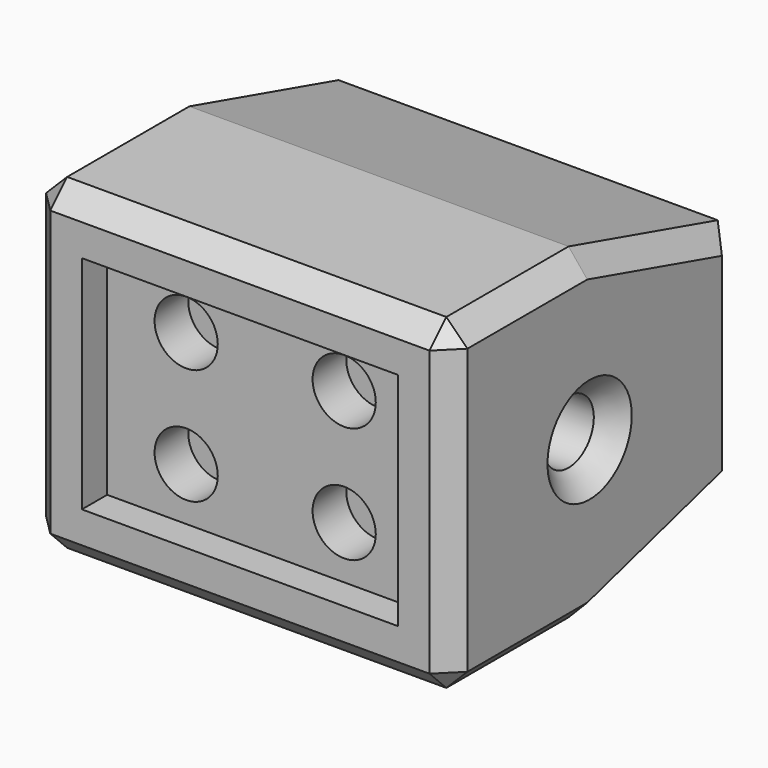
from build123d import *

# Parameters (mm, degrees)
F1_DEPTH = 50.8
F2_W     = 76.2
F2_H     = 53.34
F3_DEPTH = 7.62
F4_R     = 7.62
F5_DEPTH = 10.16
F6_R     = 7.62
F7_DEPTH = 19.05
F8_R     = 7.62
F9_DEPTH = 19.05
F10_SIZE = 5.08


with BuildPart() as f1:
    # F0 (on Right) → F1 (new body, symmetric)
    with BuildSketch(Plane.YZ):
        Polygon((41.91, 39.37), (0, 39.37), (0, 0), (0, -39.37), (41.91, -39.37), (86.868, -26.67), (86.868, 0), (86.868, 26.67), align=None)
    extrude(amount=F1_DEPTH, both=True)

    # F2 (on face) → F3 (cut)
    with BuildSketch(Plane.XZ):
        Rectangle(F2_W, F2_H)
    extrude(amount=-F3_DEPTH, mode=Mode.SUBTRACT)

    # F4 (on face) → F5 (cut)
    with BuildSketch(Plane.XZ.offset(-7.62)):
        with Locations((-19.05, 13.97)):
            Circle(F4_R)
        with Locations((19.05, 13.97)):
            Circle(F4_R)
        with Locations((-19.05, -13.97)):
            Circle(F4_R)
        with Locations((19.05, -13.97)):
            Circle(F4_R)
    extrude(amount=-F5_DEPTH, mode=Mode.SUBTRACT)

    # F6 (on face) → F7 (cut)
    with BuildSketch(Plane.YZ.offset(50.8)):
        with Locations((41.91, 0)):
            Circle(F6_R)
    extrude(amount=-F7_DEPTH, mode=Mode.SUBTRACT)

    # F8 (on face) → F9 (cut)
    with BuildSketch(Plane(origin=(-50.8, 0, 0), x_dir=(0, -1, 0), z_dir=(-1, 0, 0))):
        with Locations((-41.91, 0)):
            Circle(F8_R)
    extrude(amount=-F9_DEPTH, mode=Mode.SUBTRACT)

    # F10
    f10_edges = [f1.edges().sort_by_distance(p)[0] for p in [
        (50.8, 20.955, 39.37),
        (50.8, 64.389, 33.02),
        (50.8, 0, 0),
        (50.8, 86.868, 0),
        (50.8, 20.955, -39.37),
        (50.8, 64.389, -33.02),
        (50.8, 34.29, 0),
        (-50.8, 20.955, 39.37),
        (-50.8, 64.389, 33.02),
        (-50.8, 0, 0),
        (-50.8, 86.868, 0),
        (-50.8, 20.955, -39.37),
        (-50.8, 64.389, -33.02),
        (-50.8, 49.53, 0),
        (0, 0, 39.37),
        (0, 0, -39.37),
    ]]
    chamfer(f10_edges, length=F10_SIZE)


solid = f1.part
